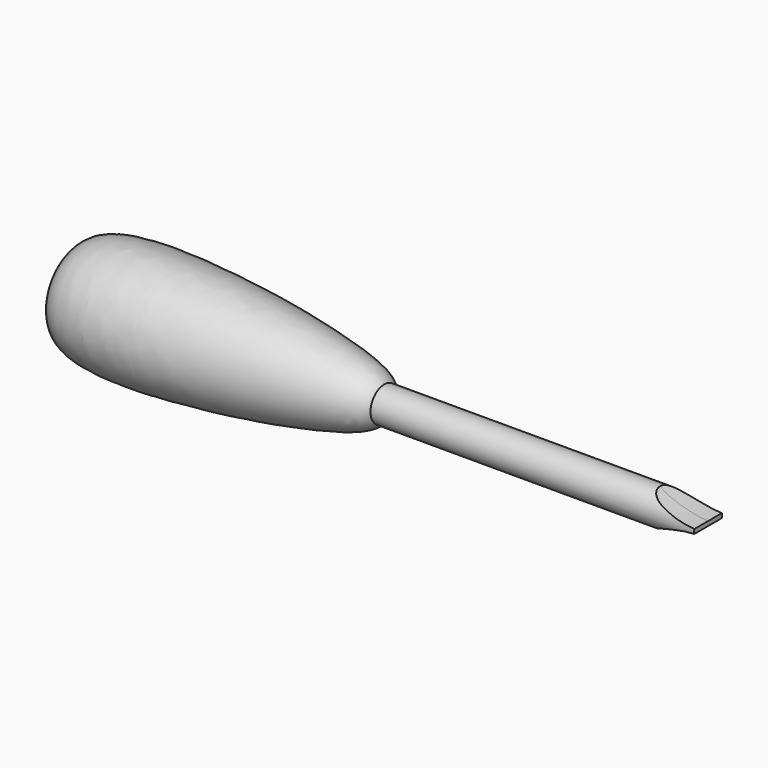
from build123d import *

# Parameters (mm, degrees)
F0_W          = 53.4308515489
F0_H          = 2.8585356195
F3_DEPTH      = 25
F3_DEPTH_BACK = 25


with BuildPart() as f1:
    # F0 (on Front) → F1 (revolve)
    with BuildSketch(Plane.XZ):
        with BuildLine():
            Line((-51.769964397, 0), (0, 0))
            Line((0, 0), (0, 2.8585356195))
            add(Edge.make_bspline(
                [(-51.769964397, 0), (-51.9150732548, 5.9729817036), (-48.5666547713, 9.9986232463), (-28.5664722225, 9.3824894101), (-10.8998766604, 6.9841195767), (-1.008867938, 4.4151364363), (0, 2.8585356195)],
                knots=[0, 0, 0, 0, 0.2062985932, 0.4897524386, 0.7883562467, 1, 1, 1, 1], degree=3))
        make_face()
        with Locations((26.7154257745, 1.4292678097)):
            Rectangle(F0_W, F0_H)
    revolve(axis=Axis((0.830443576, 0, 0), (-1, 0, 0)))

    # F2 (on Front) → F3 (cut, two sides)
    with BuildSketch(Plane.XZ) as f3_sk:
        with BuildLine():
            Line((55.8451525867, 3.1400402716), (45.2548848048, 3.1400402716))
            add(Edge.make_bspline(
                [(45.2548848048, 3.1400402716), (45.9080027919, 2.3053192042), (49.4573835127, 0.8682668184), (53.7558149824, 0.0506240562), (56.130883876, 0.5836136314)],
                knots=[0, 0, 0, 0, 0.4437761369, 1, 1, 1, 1], degree=3))
            Line((56.130883876, 0.5836136314), (55.8451525867, 3.1400402716))
        make_face()
        with BuildLine():
            add(Edge.make_bspline(
                [(45.2548848048, -3.1400402716), (45.9080027919, -2.3053192042), (49.4573835127, -0.8682668184), (53.7558149824, -0.0506240562), (56.130883876, -0.5836136314)],
                knots=[0, 0, 0, 0, 0.4437761369, 1, 1, 1, 1], degree=3))
            Line((45.2548848048, -3.1400402716), (55.8273755014, -3.5082600079))
            Line((55.8273755014, -3.5082600079), (56.130883876, -0.5836136314))
        make_face()
    extrude(amount=-F3_DEPTH, mode=Mode.SUBTRACT)
    extrude(f3_sk.sketch, amount=F3_DEPTH_BACK, mode=Mode.SUBTRACT)


solid = f1.part
